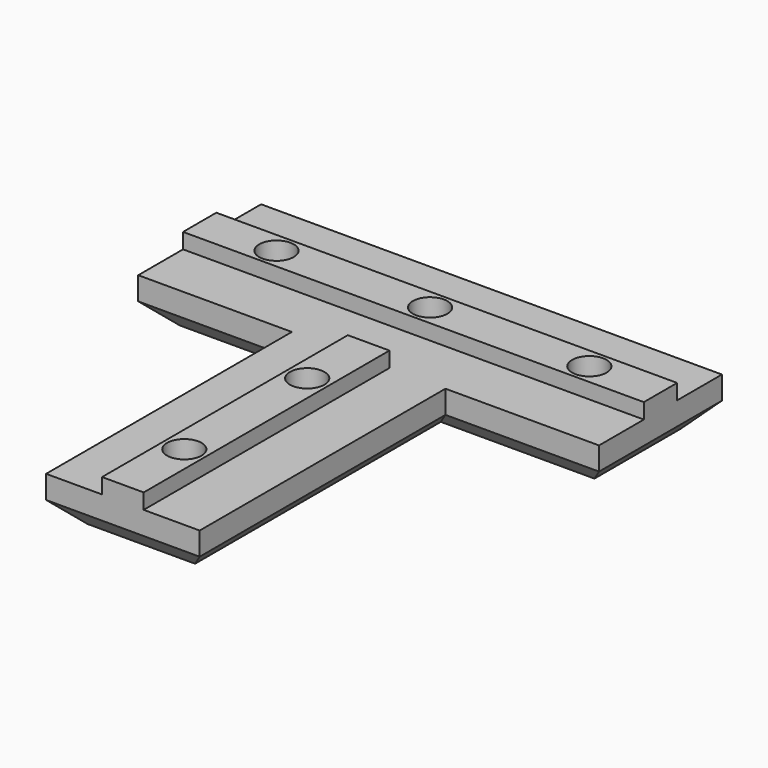
from build123d import *

# Parameters (mm, degrees)
F1_DEPTH = 6
F3_DEPTH = 2
F4_R     = 2.25
F5_DEPTH = 8.001
F6_R     = 3.75
F7_DEPTH = 2
F8_SIZE  = 3


with BuildPart() as f1:
    # F0 (on Top) → F1 (new body)
    with BuildSketch(Plane.XY):
        Polygon((-30, 0), (-10, 0), (-10, -40), (0, -40), (10, -40), (10, 0), (30, 0), (30, 20), (0, 20), (-30, 20), align=None)
    extrude(amount=F1_DEPTH)

    # F2 (on face) → F3 (join)
    with BuildSketch(Plane.XY.offset(6)):
        Polygon((2.71, 0), (0, 0), (-2.71, 0), (-2.71, -40), (2.71, -40), align=None)
        Polygon((30, 7.29), (30, 12.71), (-30, 12.71), (-30, 10), (-30, 7.29), align=None)
    extrude(amount=F3_DEPTH)

    # F4 (on face) → F5 (cut, through all)
    with BuildSketch(Plane(origin=(0, 0, 0), x_dir=(1, 0, 0), z_dir=(0, 0, -1))):
        with Locations((-20, -10)):
            Circle(F4_R)
        with Locations((0, 10)):
            Circle(F4_R)
        with Locations((0, 30)):
            Circle(F4_R)
        with Locations((20.741304, -10)):
            Circle(F4_R)
        with Locations((0, -10)):
            Circle(F4_R)
    extrude(amount=-F5_DEPTH, mode=Mode.SUBTRACT)

    # F6 (on face) → F7 (cut)
    with BuildSketch(Plane(origin=(0, 0, 0), x_dir=(1, 0, 0), z_dir=(0, 0, -1))):
        with Locations((0, 30)):
            Circle(F6_R)
        with Locations((0, 10)):
            Circle(F6_R)
        with Locations((20.741304, -10)):
            Circle(F6_R)
        with Locations((-20, -10)):
            Circle(F6_R)
        with Locations((0, -10)):
            Circle(F6_R)
    extrude(amount=-F7_DEPTH, mode=Mode.SUBTRACT)

    # F8
    f8_edges = [f1.edges().sort_by_distance(p)[0] for p in [
        (-10, -20, 0),
        (-20, 0, 0),
        (10, -20, 0),
        (20, 0, 0),
        (0, 20, 0),
        (30, 10, 0),
        (-30, 10, 0),
        (0, -40, 0),
    ]]
    chamfer(f8_edges, length=F8_SIZE)


solid = f1.part
